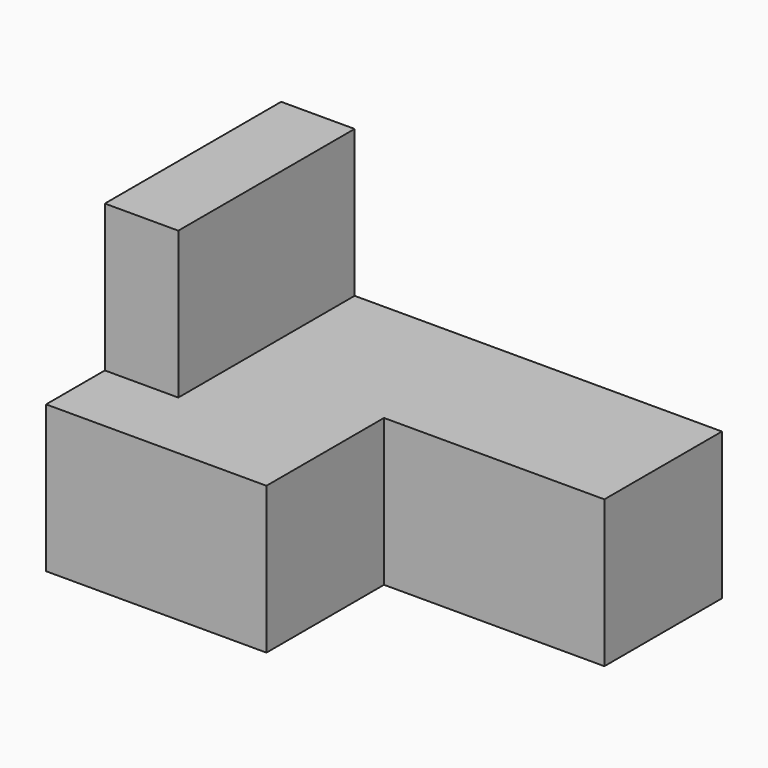
from build123d import *

# Parameters (mm, degrees)
F0_W     = 19.05
F0_H     = 12.7
F1_DEPTH = 12.7
F0_W_2   = 6.35
F2_DEPTH = 19.05
F3_DEPTH = 25.4


with BuildPart() as f1:
    # F0 (on Front) → F1 (new body)
    with BuildSketch(Plane.XZ):
        with Locations((28.575, 6.35)):
            Rectangle(F0_W, F0_H)
        Polygon((0, 0), (19.05, 0), (19.05, 12.7), (6.35, 12.7), (0, 12.7), align=None)
    extrude(amount=F1_DEPTH)

    # F0 (on Front) → F2 (join)
    with BuildSketch(Plane.XZ):
        with Locations((3.175, 19.05)):
            Rectangle(F0_W_2, F0_H)
    extrude(amount=F2_DEPTH)

    # F0 (on Front) → F3 (join)
    with BuildSketch(Plane.XZ):
        Polygon((0, 0), (19.05, 0), (19.05, 12.7), (6.35, 12.7), (0, 12.7), align=None)
    extrude(amount=F3_DEPTH)


solid = f1.part
